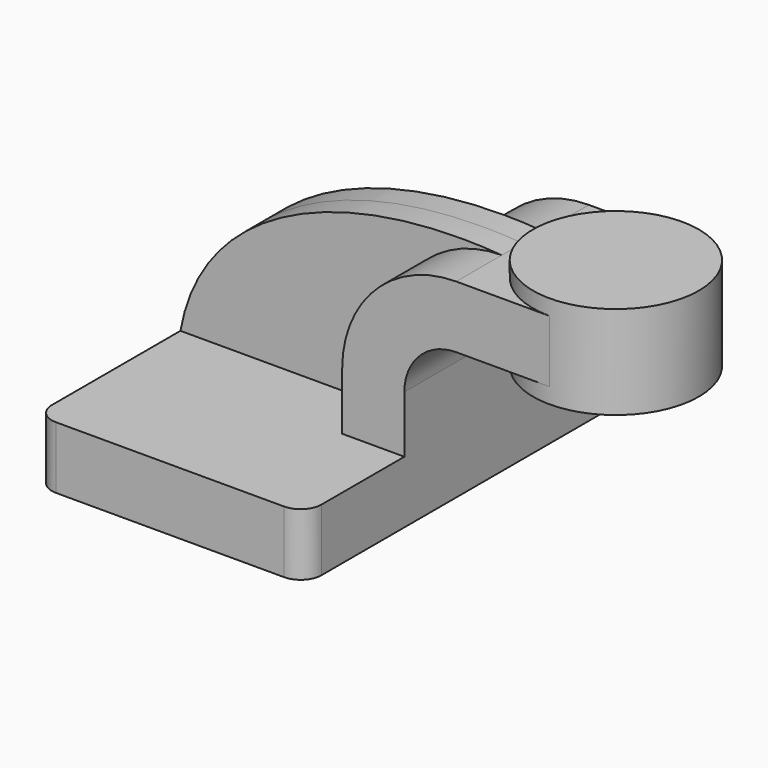
from build123d import *

# Parameters (mm, degrees)
F1_DEPTH = 63.5
F0_W     = 25.4
F0_H     = 19.05
F2_DEPTH = 25.4
F3_DEPTH = 7.9375
F5_R     = 6.35


with BuildPart() as f1:
    # F0 (on Front) → F1 (new body, symmetric)
    with BuildSketch(Plane.XZ):
        Polygon((22.225, 9.525), (-41.275, 9.525), (-41.275, -9.525), (41.275, -9.525), (41.275, 9.525), align=None)
    extrude(amount=F1_DEPTH, both=True)

    # F0 (on Front) → F2 (join, symmetric)
    with BuildSketch(Plane.XZ):
        with BuildLine():
            Line((22.225, 27.0002), (22.225, 9.525))
            Line((22.225, 9.525), (41.275, 9.525))
            Line((41.275, 9.525), (41.275, 27.0002))
            ThreePointArc((41.275, 27.0002), (45.9246798487, 38.2255201513), (57.15, 42.8752))
            Line((57.15, 42.8752), (60.325, 42.8752))
            Line((60.325, 42.8752), (60.325, 61.9252))
            Line((60.325, 61.9252), (57.15, 61.9252))
            ThreePointArc((57.15, 61.9252), (32.4542956671, 51.6959043329), (22.225, 27.0002))
        make_face()
        with Locations((73.025, 52.4002)):
            Rectangle(F0_W, F0_H)
    extrude(amount=F2_DEPTH, both=True)

    # F0 (on Front) → F3 (join, symmetric)
    with BuildSketch(Plane.XZ):
        with BuildLine():
            add(Edge.make_bspline(
                [(-41.275, 9.525), (-34.4362333417, 48.1805466115), (9.3027921394, 65.6224936247), (57.15, 61.9252)],
                knots=[0, 0, 0, 0, 111.5045361635, 111.5045361635, 111.5045361635, 111.5045361635], degree=3))
            Line((-41.275, 9.525), (22.225, 9.525))
            Line((22.225, 9.525), (22.225, 27.0002))
            ThreePointArc((22.225, 27.0002), (32.4542956671, 51.6959043329), (57.15, 61.9252))
        make_face()
    extrude(amount=F3_DEPTH, both=True)

    # F0 (on Front) → F4 (revolve)
    with BuildSketch(Plane.XZ):
        Polygon((85.725, 66.675), (85.725, 61.9252), (85.725, 42.8752), (85.725, 38.1), (111.125, 38.1), (111.125, 66.675), align=None)
    revolve(axis=Axis((85.725, 0, 52.3875), (0, 0, 1)))

    # F5
    f5_edges = [f1.edges().sort_by_distance(p)[0] for p in [
        (-41.275, -63.5, 0),
        (41.275, -63.5, 0),
        (41.275, 63.5, 0),
        (-41.275, 63.5, 0),
    ]]
    fillet(f5_edges, radius=F5_R)


with BuildPart() as f6_1:
    # F6: copy of F1
    add(f1.part.moved(Location((127, 127, 127))))


solid = f6_1.part
